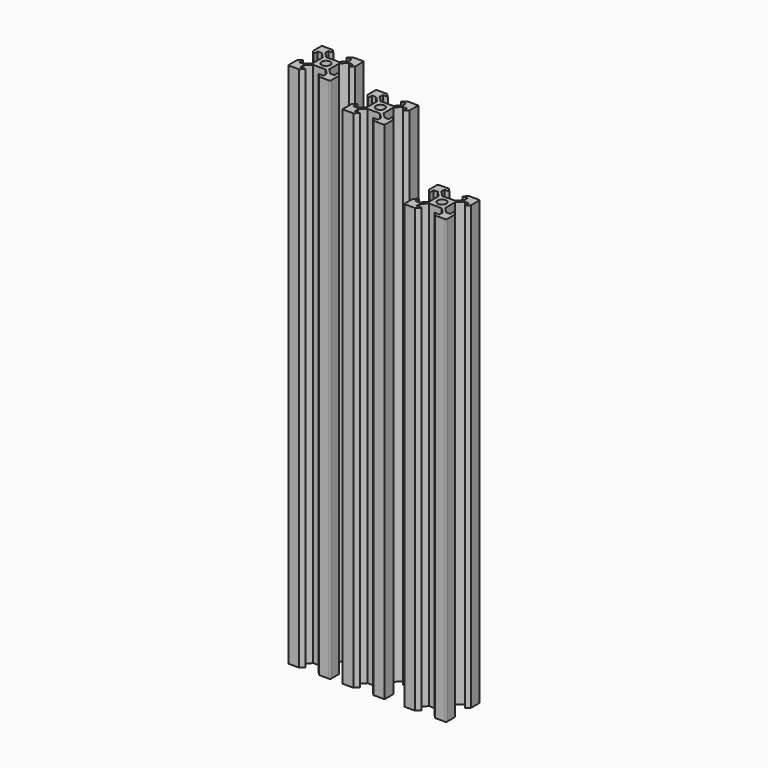
from build123d import *

# Parameters (mm, degrees)
F0_R     = 2.1
F1_DEPTH = 250
F2_R     = 2.1
F3_DEPTH = 240
F4_R     = 2.1
F5_DEPTH = 210


with BuildPart() as f1:
    # F0 (on Top) → F1 (new body)
    with BuildSketch(Plane.XY):
        with BuildLine():
            ThreePointArc((9.5, -10), (9.853553, -9.853553), (10, -9.5))
            Line((10, -9.5), (10, -4.775))
            Line((10, -4.775), (8.325, -3.1))
            Line((8.325, -3.1), (8.325, -5.5))
            Line((8.325, -5.5), (6.419239, -5.5))
            Line((6.419239, -5.5), (3.9, -2.980761))
            Line((3.9, -2.980761), (3.9, 2.980761))
            Line((3.9, 2.980761), (6.419239, 5.5))
            Line((6.419239, 5.5), (8.325, 5.5))
            Line((8.325, 5.5), (8.325, 3.1))
            Line((8.325, 3.1), (10, 4.775))
            Line((10, 4.775), (10, 9.5))
            ThreePointArc((10, 9.5), (9.853553, 9.853553), (9.5, 10))
            Line((9.5, 10), (4.775, 10))
            Line((4.775, 10), (3.1, 8.325))
            Line((3.1, 8.325), (5.5, 8.325))
            Line((5.5, 8.325), (5.5, 6.419239))
            Line((5.5, 6.419239), (2.980761, 3.9))
            Line((2.980761, 3.9), (-2.980761, 3.9))
            Line((-2.980761, 3.9), (-5.5, 6.419239))
            Line((-5.5, 6.419239), (-5.5, 8.325))
            Line((-5.5, 8.325), (-3.1, 8.325))
            Line((-3.1, 8.325), (-4.775, 10))
            Line((-4.775, 10), (-9.5, 10))
            ThreePointArc((-9.5, 10), (-9.853553, 9.853553), (-10, 9.5))
            Line((-10, 9.5), (-10, 4.775))
            Line((-10, 4.775), (-8.325, 3.1))
            Line((-8.325, 3.1), (-8.325, 5.5))
            Line((-8.325, 5.5), (-6.419239, 5.5))
            Line((-6.419239, 5.5), (-3.9, 2.980761))
            Line((-3.9, 2.980761), (-3.9, -2.980761))
            Line((-3.9, -2.980761), (-6.419239, -5.5))
            Line((-6.419239, -5.5), (-8.325, -5.5))
            Line((-8.325, -5.5), (-8.325, -3.1))
            Line((-8.325, -3.1), (-10, -4.775))
            Line((-10, -4.775), (-10, -9.5))
            ThreePointArc((-10, -9.5), (-9.853553, -9.853553), (-9.5, -10))
            Line((-9.5, -10), (-4.775, -10))
            Line((-4.775, -10), (-3.1, -8.325))
            Line((-3.1, -8.325), (-5.5, -8.325))
            Line((-5.5, -8.325), (-5.5, -6.419239))
            Line((-5.5, -6.419239), (-2.980761, -3.9))
            Line((-2.980761, -3.9), (2.980761, -3.9))
            Line((2.980761, -3.9), (5.5, -6.419239))
            Line((5.5, -6.419239), (5.5, -8.325))
            Line((5.5, -8.325), (3.1, -8.325))
            Line((3.1, -8.325), (4.775, -10))
            Line((4.775, -10), (9.5, -10))
        make_face()
        Circle(F0_R, mode=Mode.SUBTRACT)
    extrude(amount=F1_DEPTH)


with BuildPart() as f3:
    # F2 (on Top) → F3 (new body)
    with BuildSketch(Plane.XY):
        Polygon((30.558722, -9.993672), (35.783722, -9.993672), (35.783722, -4.768672), (34.108722, -3.093672), (34.108722, -5.493672), (32.202961, -5.493672), (29.683722, -2.974433), (29.683722, 2.987089), (32.202961, 5.506328), (34.108722, 5.506328), (34.108722, 3.106328), (35.783722, 4.781328), (35.783722, 10.006328), (30.558722, 10.006328), (28.883722, 8.331328), (31.283722, 8.331328), (31.283722, 6.425567), (28.764483, 3.906328), (22.802961, 3.906328), (20.283722, 6.425567), (20.283722, 8.331328), (22.683722, 8.331328), (21.008722, 10.006328), (15.783722, 10.006328), (15.783722, 4.781328), (17.458722, 3.106328), (17.458722, 5.506328), (19.364483, 5.506328), (21.883722, 2.987089), (21.883722, -2.974433), (19.364483, -5.493672), (17.458722, -5.493672), (17.458722, -3.093672), (15.783722, -4.768672), (15.783722, -9.993672), (21.008722, -9.993672), (22.683722, -8.318672), (20.283722, -8.318672), (20.283722, -6.412911), (22.802961, -3.893672), (28.764483, -3.893672), (31.283722, -6.412911), (31.283722, -8.318672), (28.883722, -8.318672), align=None)
        with Locations((25.783722, 0.006328)):
            Circle(F2_R, mode=Mode.SUBTRACT)
    extrude(amount=F3_DEPTH)


with BuildPart() as f5:
    # F4 (on Top) → F5 (new body)
    with BuildSketch(Plane.XY):
        with BuildLine():
            ThreePointArc((64.61315, -10.08102), (64.966703, -9.934574), (65.11315, -9.58102))
            Line((65.11315, -9.58102), (65.11315, -4.85602))
            Line((65.11315, -4.85602), (63.43815, -3.18102))
            Line((63.43815, -3.18102), (63.43815, -5.58102))
            Line((63.43815, -5.58102), (61.532388, -5.58102))
            Line((61.532388, -5.58102), (59.01315, -3.061781))
            Line((59.01315, -3.061781), (59.01315, 2.899741))
            Line((59.01315, 2.899741), (61.532388, 5.41898))
            Line((61.532388, 5.41898), (63.43815, 5.41898))
            Line((63.43815, 5.41898), (63.43815, 3.01898))
            Line((63.43815, 3.01898), (65.11315, 4.69398))
            Line((65.11315, 4.69398), (65.11315, 9.41898))
            ThreePointArc((65.11315, 9.41898), (64.966703, 9.772533), (64.61315, 9.91898))
            Line((64.61315, 9.91898), (59.88815, 9.91898))
            Line((59.88815, 9.91898), (58.21315, 8.24398))
            Line((58.21315, 8.24398), (60.61315, 8.24398))
            Line((60.61315, 8.24398), (60.61315, 6.338219))
            Line((60.61315, 6.338219), (58.093911, 3.81898))
            Line((58.093911, 3.81898), (52.132388, 3.81898))
            Line((52.132388, 3.81898), (49.61315, 6.338219))
            Line((49.61315, 6.338219), (49.61315, 8.24398))
            Line((49.61315, 8.24398), (52.01315, 8.24398))
            Line((52.01315, 8.24398), (50.33815, 9.91898))
            Line((50.33815, 9.91898), (45.61315, 9.91898))
            ThreePointArc((45.61315, 9.91898), (45.259596, 9.772533), (45.11315, 9.41898))
            Line((45.11315, 9.41898), (45.11315, 4.69398))
            Line((45.11315, 4.69398), (46.78815, 3.01898))
            Line((46.78815, 3.01898), (46.78815, 5.41898))
            Line((46.78815, 5.41898), (48.693911, 5.41898))
            Line((48.693911, 5.41898), (51.21315, 2.899741))
            Line((51.21315, 2.899741), (51.21315, -3.061781))
            Line((51.21315, -3.061781), (48.693911, -5.58102))
            Line((48.693911, -5.58102), (46.78815, -5.58102))
            Line((46.78815, -5.58102), (46.78815, -3.18102))
            Line((46.78815, -3.18102), (45.11315, -4.85602))
            Line((45.11315, -4.85602), (45.11315, -9.58102))
            ThreePointArc((45.11315, -9.58102), (45.259596, -9.934574), (45.61315, -10.08102))
            Line((45.61315, -10.08102), (50.33815, -10.08102))
            Line((50.33815, -10.08102), (52.01315, -8.40602))
            Line((52.01315, -8.40602), (49.61315, -8.40602))
            Line((49.61315, -8.40602), (49.61315, -6.500259))
            Line((49.61315, -6.500259), (52.132388, -3.98102))
            Line((52.132388, -3.98102), (58.093911, -3.98102))
            Line((58.093911, -3.98102), (60.61315, -6.500259))
            Line((60.61315, -6.500259), (60.61315, -8.40602))
            Line((60.61315, -8.40602), (58.21315, -8.40602))
            Line((58.21315, -8.40602), (59.88815, -10.08102))
            Line((59.88815, -10.08102), (64.61315, -10.08102))
        make_face()
        with Locations((55.11315, -0.08102)):
            Circle(F4_R, mode=Mode.SUBTRACT)
    extrude(amount=F5_DEPTH)


solid = Compound([f1.part, f3.part, f5.part])
